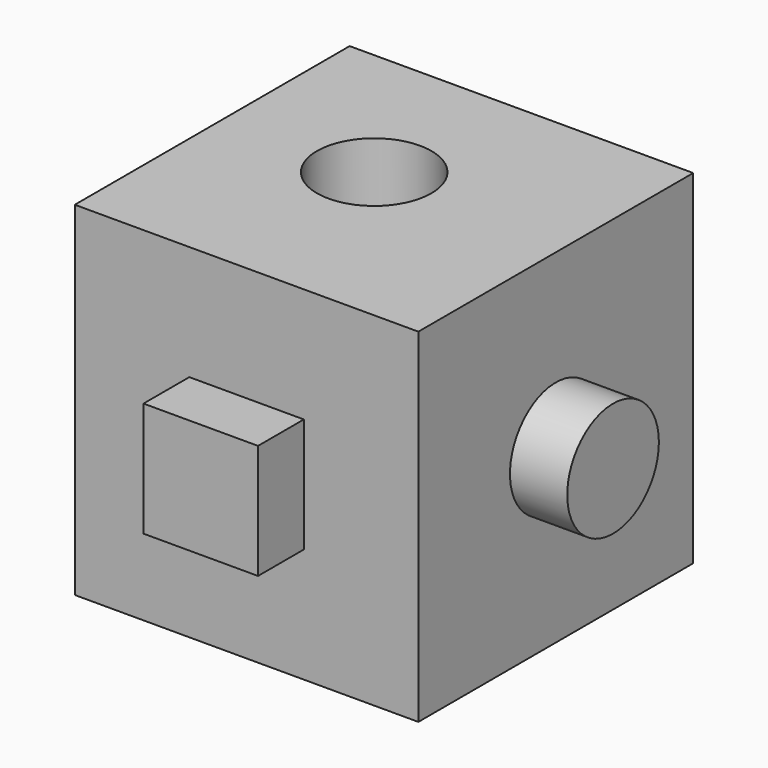
from build123d import *

# Parameters (mm, degrees)
F0_W     = 76.2
F0_H     = 76.2
F1_DEPTH = 76.2
F2_R     = 12.7
F3_DEPTH = 12.7
F4_W     = 25.4
F4_H     = 25.4
F5_DEPTH = 12.7
F7_D     = 25.4
F9_DEPTH = 12.7


with BuildPart() as f1:
    # F0 (on Front) → F1 (new body)
    with BuildSketch(Plane.XZ):
        with Locations((-49.343084, 67.806647)):
            Rectangle(F0_W, F0_H)
    extrude(amount=F1_DEPTH)

    # F2 (on face) → F3 (join)
    with BuildSketch(Plane.YZ.offset(-11.243084)):
        with Locations((-38.1, 67.806647)):
            Circle(F2_R)
    extrude(amount=F3_DEPTH)

    # F4 (on face) → F5 (join)
    with BuildSketch(Plane.XZ.offset(76.2)):
        with Locations((-49.343084, 67.806647)):
            Rectangle(F4_W, F4_H)
    extrude(amount=F5_DEPTH)

    # F7 (through all)
    with Locations(Plane.XY.offset(105.906647)):
        with Locations((-54.589249, -34.257531)):
            Hole(F7_D / 2)

    # F8 (on face) → F9 (join)
    with BuildSketch(Plane(origin=(0, 0, 0), x_dir=(-1, 0, 0), z_dir=(0, 1, 0))):
        Polygon((66.085933, 57.915788), (49.537393, 87.251809), (32.405924, 58.252343), align=None)
    extrude(amount=F9_DEPTH)


solid = f1.part
